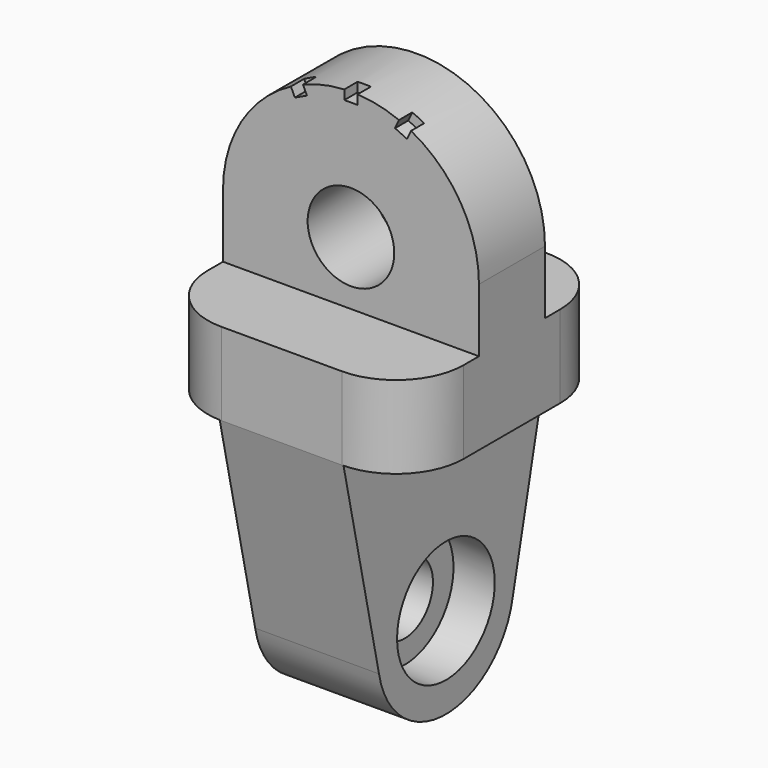
from build123d import *

# Parameters (mm, degrees)
PAD_DEPTH         = 10
PAD001_DEPTH      = 5
SKETCH002_W       = 60.350427
SKETCH002_H       = 42.441708
POCKET_DEPTH      = 15.501
POCKET_DEPTH_BACK = -15.501
PAD002_DEPTH      = 7.5
SKETCH004_R       = 7.396265
POCKET001_DEPTH   = 5
SKETCH005_R       = 4.287868
POCKET002_DEPTH   = 18.001
SKETCH006_R       = 7.396265
POCKET003_DEPTH   = 5
POCKET004_DEPTH   = 2
SKETCH008_R       = 5.244286
POCKET005_DEPTH   = 18


with BuildPart() as part:
    # Sketch → Pad (new body)
    with BuildSketch(Plane.XY):
        with BuildLine():
            ThreePointArc((-7.304893, 15.5), (-13.099709, 13.099709), (-15.5, 7.304893))
            Line((-15.5, -7.304893), (-15.5, 7.304893))
            ThreePointArc((-15.5, -7.304893), (-13.099709, -13.099709), (-7.304893, -15.5))
            Line((7.304893, -15.5), (-7.304893, -15.5))
            ThreePointArc((7.304893, -15.5), (13.099709, -13.099709), (15.5, -7.304893))
            Line((15.5, 7.304893), (15.5, -7.304893))
            ThreePointArc((15.5, 7.304893), (13.099709, 13.099709), (7.304893, 15.5))
            Line((-7.304893, 15.5), (7.304893, 15.5))
        make_face()
    extrude(amount=PAD_DEPTH)

    # Sketch001 (on Face4 of Pad) → Pad001 (join, symmetric)
    with BuildSketch(Plane.XZ):
        with BuildLine():
            ThreePointArc((15.5, 17.675132), (0, 33.175132), (-15.5, 17.675132))
            Line((-15.5, 17.675132), (-15.5, -25.955341))
            ThreePointArc((-15.5, -25.955341), (0, -41.455341), (15.5, -25.955341))
            Line((15.5, -25.955341), (15.5, 17.675132))
        make_face()
    extrude(amount=PAD001_DEPTH, both=True)

    # Sketch002 → Pocket (cut, two sides)
    with BuildSketch(Plane.XZ) as pocket_sk:
        with Locations((0.02109, -21.220854)):
            Rectangle(SKETCH002_W, SKETCH002_H)
    extrude(amount=-POCKET_DEPTH, mode=Mode.SUBTRACT)
    extrude(pocket_sk.sketch, amount=-POCKET_DEPTH_BACK, mode=Mode.SUBTRACT)

    # Sketch003 (on Face7 of Pocket) → Pad002 (join, symmetric)
    with BuildSketch(Plane(origin=(0, 0, 0), x_dir=(0, -1, 0), z_dir=(-1, 0, 0))):
        with BuildLine():
            ThreePointArc((-10.127765, -24.385975), (0, -32.810989), (10.127765, -24.385975))
            Line((10.127765, -24.385975), (15.5, 0))
            Line((15.5, 0), (-15.5, 0))
            Line((-10.127765, -24.385975), (-15.5, 0))
        make_face()
    extrude(amount=PAD002_DEPTH, both=True)

    # Sketch004 (on Face10 of Pad002) → Pocket001 (cut)
    with BuildSketch(Plane(origin=(-7.5, 0, 0), x_dir=(0, -1, 0), z_dir=(-1, 0, 0))):
        with Locations((0, -21.767319)):
            Circle(SKETCH004_R)
    extrude(amount=-POCKET001_DEPTH, mode=Mode.SUBTRACT)

    # Sketch005 (on Face34 of Pocket001) → Pocket002 (cut, through all)
    with BuildSketch(Plane(origin=(-2.5, 0, 0), x_dir=(0, -1, 0), z_dir=(-1, 0, 0))):
        with Locations((0, -22.070341)):
            Circle(SKETCH005_R)
    extrude(amount=-POCKET002_DEPTH, mode=Mode.SUBTRACT)

    # Sketch006 (on Face10 of Pad002) → Pocket003 (cut)
    with BuildSketch(Plane(origin=(7.5, 0, 0), x_dir=(0, -1, 0), z_dir=(-1, 0, 0))):
        with Locations((0, -21.767319)):
            Circle(SKETCH006_R)
    extrude(amount=POCKET003_DEPTH, mode=Mode.SUBTRACT)

    # Sketch007 (on Face31 of Pocket003) → Pocket004 (cut)
    with BuildSketch(Plane.XZ.offset(5)):
        Polygon((-6.795665, 30.335199), (-5.335589, 31.015743), (-6.016133, 32.47582), (-7.476209, 31.795276), align=None)
        Polygon((0.805308, 32.018946), (0.805581, 33.629835), (-0.805308, 33.630107), (-0.805581, 32.019218), align=None)
        Polygon((6.794823, 30.3329), (7.475861, 31.792746), (6.016015, 32.473784), (5.334977, 31.013938), align=None)
    extrude(amount=-POCKET004_DEPTH, mode=Mode.SUBTRACT)

    # Sketch008 (on Face31 of Pocket003) → Pocket005 (cut)
    with BuildSketch(Plane.XZ.offset(5)):
        with Locations((-0.002564, 17.667446)):
            Circle(SKETCH008_R)
    extrude(amount=-POCKET005_DEPTH, mode=Mode.SUBTRACT)


solid = part.part
